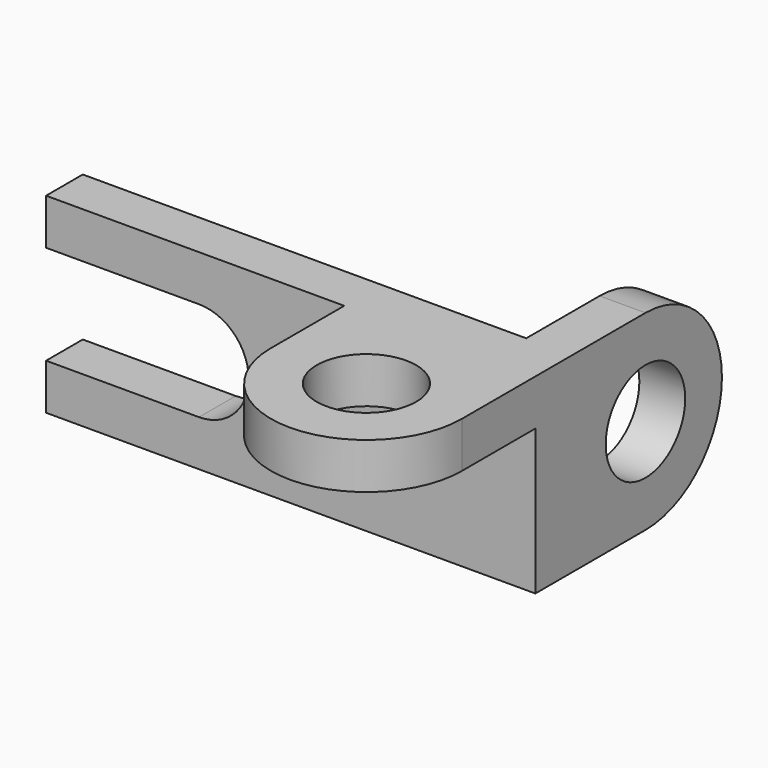
from build123d import *

# Parameters (mm, degrees)
F1_DEPTH = 6
F2_R     = 6.5
F3_DEPTH = 6
F4_R     = 6.5
F5_DEPTH = 6


with BuildPart() as f1:
    # F0 (on Front) → F1 (new body)
    with BuildSketch(Plane.XZ):
        with BuildLine():
            Line((32, -12.5), (32, 12.5))
            Line((32, 12.5), (-32, 12.5))
            Line((-32, 12.5), (-32, 6.5))
            Line((-32, 6.5), (-12, 6.5))
            ThreePointArc((-12, 6.5), (-7.403806, 4.596194), (-5.5, 0))
            ThreePointArc((-5.5, 0), (-7.403806, -4.596194), (-12, -6.5))
            Line((-12, -6.5), (-32, -6.5))
            Line((-32, -6.5), (-32, -12.5))
            Line((-32, -12.5), (-12.5, -12.5))
            Line((-12.5, -12.5), (12.5, -12.5))
            Line((12.5, -12.5), (32, -12.5))
        make_face()
    extrude(amount=F1_DEPTH)

    # F2 (on face) → F3 (join)
    with BuildSketch(Plane.YZ.offset(32)):
        with BuildLine():
            Line((0, 12.5), (0, -12.5))
            Line((0, -12.5), (12, -12.5))
            ThreePointArc((12, -12.5), (24.5, 0), (12, 12.5))
            Line((12, 12.5), (0, 12.5))
        make_face()
        with Locations((12, 0)):
            Circle(F2_R, mode=Mode.SUBTRACT)
    extrude(amount=-F3_DEPTH)

    # F4 (on face) → F5 (join)
    with BuildSketch(Plane.XY.offset(12.5)):
        with BuildLine():
            Line((32, -18), (32, -6))
            Line((32, -6), (7, -6))
            Line((7, -6), (7, -18))
            ThreePointArc((7, -18), (19.5, -30.5), (32, -18))
        make_face()
        with Locations((19.5, -18)):
            Circle(F4_R, mode=Mode.SUBTRACT)
    extrude(amount=-F5_DEPTH)


solid = f1.part
